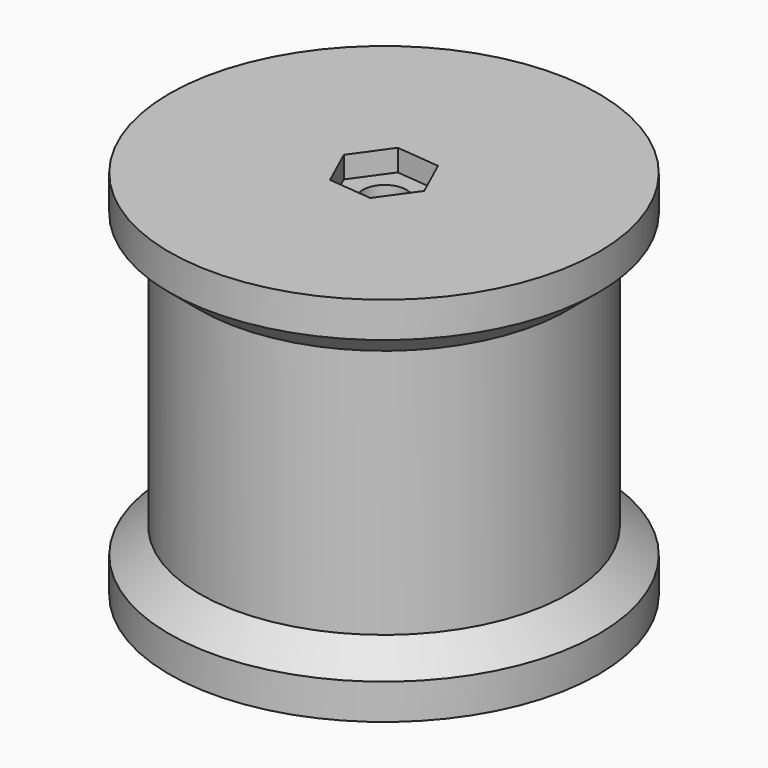
from build123d import *

# Parameters (mm, degrees)
F2_R     = 5
F3_DEPTH = 500
F4_R     = 5
F5_DEPTH = 5
F6_R     = 5
F7_DEPTH = 5


with BuildPart() as f1:
    # F0 (on Front) → F1 (revolve)
    with BuildSketch(Plane.XZ):
        Polygon((-0.16488, 15.599042), (-0.16488, 58.469787), (-49.661098, 58.469787), (-49.661098, 50.285377), (-42.645885, 44.439362), (-42.645885, 15.599042), (-42.645885, -13.241278), (-49.661098, -19.087292), (-49.661098, -27.271703), (-0.16488, -27.271703), align=None)
    revolve(axis=Axis((-0.16488, 0, 15.599042), (0, 0, -1)))

    # F2 (on Top) → F3 (cut, symmetric)
    with BuildSketch(Plane.XY):
        Circle(F2_R)
    extrude(amount=F3_DEPTH, both=True, mode=Mode.SUBTRACT)

    # F4 (on face) → F5 (cut)
    with BuildSketch(Plane.XY.offset(58.469787)):
        Circle(F4_R)
        Polygon((-4.34874, 9.196665), (-10.221355, 0.975004), (-6.037496, -8.221661), (4.01898, -9.196665), (9.891596, -0.975004), (5.707736, 8.221661), align=None)
        Circle(F4_R, mode=Mode.SUBTRACT)
    extrude(amount=-F5_DEPTH, mode=Mode.SUBTRACT)

    # F6 (on face) → F7 (cut)
    with BuildSketch(Plane(origin=(0, 0, -27.271703), x_dir=(1, 0, 0), z_dir=(0, 0, -1))):
        Polygon((2.242914, -9.851531), (9.653134, -2.983345), (7.410219, 6.868186), (-2.242914, 9.851531), (-9.653134, 2.983345), (-7.410219, -6.868186), align=None)
        Circle(F6_R, mode=Mode.SUBTRACT)
    extrude(amount=-F7_DEPTH, mode=Mode.SUBTRACT)


solid = f1.part
